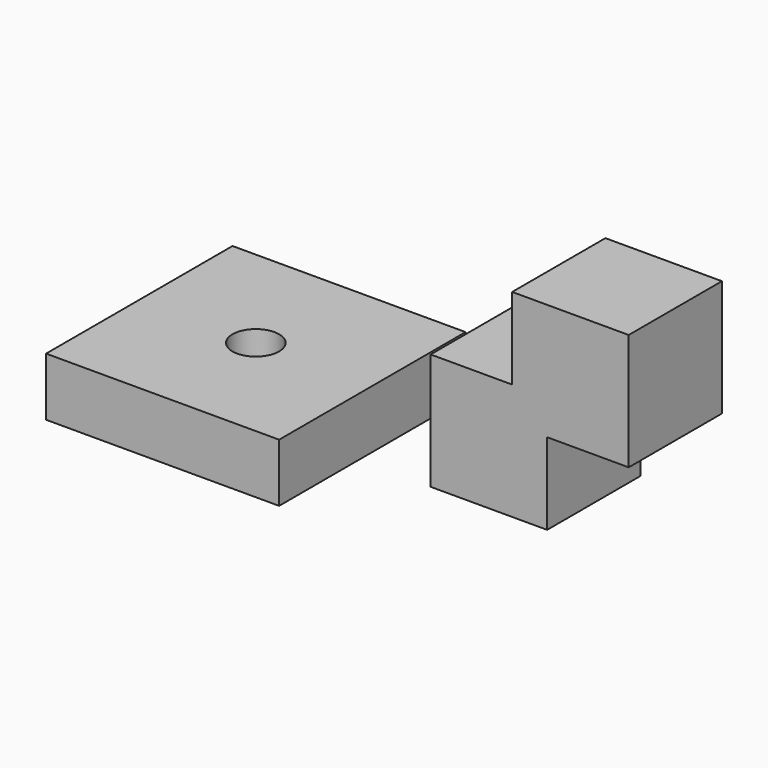
from build123d import *

# Parameters (mm, degrees)
CYLINDER_R     = 2
CYLINDER_DEPTH = 10
BOX_W          = 20
BOX_H          = 20
BOX_DEPTH      = 5
BOX001_W       = 10
BOX001_H       = 10
BOX001_DEPTH   = 10
BOX002_W       = 10
BOX002_H       = 10
BOX002_DEPTH   = 10


with BuildPart() as cylinder:
    # Cylinder → Cylinder (new body)
    with BuildSketch(Plane.XY):
        Circle(CYLINDER_R)
    extrude(amount=CYLINDER_DEPTH)


with BuildPart() as cut:
    # Box → Box (new body)
    with BuildSketch(Plane(origin=(-10, -10, 1), x_dir=(1, 0, 0), z_dir=(0, 0, 1))):
        with Locations((10, 10)):
            Rectangle(BOX_W, BOX_H)
    extrude(amount=BOX_DEPTH)

    # Cut: cut Cylinder
    add(cylinder.part, mode=Mode.SUBTRACT)


with BuildPart() as cube001:
    # Box001 → Box001 (new body)
    with BuildSketch(Plane(origin=(15, 0, 0), x_dir=(1, 0, 0), z_dir=(0, 0, 1))):
        with Locations((5, 5)):
            Rectangle(BOX001_W, BOX001_H)
    extrude(amount=BOX001_DEPTH)


with BuildPart() as fusion:
    # Box002 → Box002 (new body)
    with BuildSketch(Plane(origin=(22, 0, 7), x_dir=(1, 0, 0), z_dir=(0, 0, 1))):
        with Locations((5, 5)):
            Rectangle(BOX002_W, BOX002_H)
    extrude(amount=BOX002_DEPTH)

    # Fusion: union Cube001
    add(cube001.part)


solid = Compound([cut.part, fusion.part])
